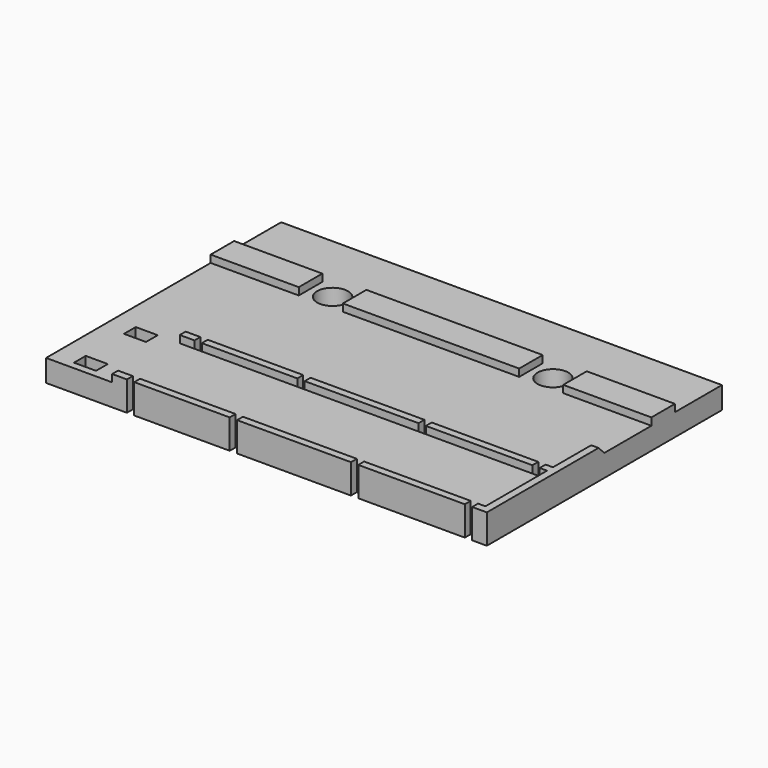
from build123d import *

# Parameters (mm, degrees)
BOX020_W          = 3
BOX020_H          = 2
BOX020_DEPTH      = 10
BOX014_W          = 1
BOX014_H          = 1
BOX014_DEPTH      = 8
BOX008_W          = 1
BOX008_H          = 1
BOX008_DEPTH      = 8
BOX009_W          = 1
BOX009_H          = 1
BOX009_DEPTH      = 8
BOX012_W          = 1
BOX012_H          = 1
BOX012_DEPTH      = 8
BOX013_W          = 1
BOX013_H          = 1
BOX013_DEPTH      = 8
BOX010_W          = 1
BOX010_H          = 1
BOX010_DEPTH      = 8
BOX011_W          = 1
BOX011_H          = 1
BOX011_DEPTH      = 8
BOX015_W          = 1
BOX015_H          = 1
BOX015_DEPTH      = 8
BOX019_W          = 3
BOX019_H          = 2
BOX019_DEPTH      = 10
BOX006_W          = 50
BOX006_H          = 1
BOX006_DEPTH      = 4
BOX005_W          = 50
BOX005_H          = 1
BOX005_DEPTH      = 4
BOX007_W          = 1
BOX007_H          = 20
BOX007_DEPTH      = 4
CHAMFER_SIZE      = 1
BOX001_W          = 60
BOX001_H          = 20
BOX001_DEPTH      = 3
CHAMFER001_SIZE   = 1
CYLINDER001_R     = 2.1
CYLINDER001_DEPTH = 10
CYLINDER_R        = 2.1
CYLINDER_DEPTH    = 10
BOX002_W          = 12
BOX002_H          = 4
BOX002_DEPTH      = 4
BOX004_W          = 24
BOX004_H          = 4
BOX004_DEPTH      = 4
BOX003_W          = 12
BOX003_H          = 4
BOX003_DEPTH      = 4
BOX_W             = 60
BOX_H             = 20
BOX_DEPTH         = 3


with BuildPart() as cube020:
    # Box020 → Box020 (new body)
    with BuildSketch(Plane(origin=(3, -10.5, 0), x_dir=(1, 0, 0), z_dir=(0, 0, 1))):
        with Locations((1.5, 1)):
            Rectangle(BOX020_W, BOX020_H)
    extrude(amount=BOX020_DEPTH)


with BuildPart() as cube014:
    # Box014 → Box014 (new body)
    with BuildSketch(Plane(origin=(11, -8.5, 0), x_dir=(1, 0, 0), z_dir=(0, 0, 1))):
        with Locations((0.5, 0.5)):
            Rectangle(BOX014_W, BOX014_H)
    extrude(amount=BOX014_DEPTH)


with BuildPart() as cube008:
    # Box008 → Box008 (new body)
    with BuildSketch(Plane(origin=(11, -20, 0), x_dir=(1, 0, 0), z_dir=(0, 0, 1))):
        with Locations((0.5, 0.5)):
            Rectangle(BOX008_W, BOX008_H)
    extrude(amount=BOX008_DEPTH)


with BuildPart() as cube009:
    # Box009 → Box009 (new body)
    with BuildSketch(Plane(origin=(25, -20, 0), x_dir=(1, 0, 0), z_dir=(0, 0, 1))):
        with Locations((0.5, 0.5)):
            Rectangle(BOX009_W, BOX009_H)
    extrude(amount=BOX009_DEPTH)


with BuildPart() as cube012:
    # Box012 → Box012 (new body)
    with BuildSketch(Plane(origin=(25, -8.5, 0), x_dir=(1, 0, 0), z_dir=(0, 0, 1))):
        with Locations((0.5, 0.5)):
            Rectangle(BOX012_W, BOX012_H)
    extrude(amount=BOX012_DEPTH)


with BuildPart() as cube013:
    # Box013 → Box013 (new body)
    with BuildSketch(Plane(origin=(41.5, -8.5, 0), x_dir=(1, 0, 0), z_dir=(0, 0, 1))):
        with Locations((0.5, 0.5)):
            Rectangle(BOX013_W, BOX013_H)
    extrude(amount=BOX013_DEPTH)


with BuildPart() as cube010:
    # Box010 → Box010 (new body)
    with BuildSketch(Plane(origin=(41.5, -20, 0), x_dir=(1, 0, 0), z_dir=(0, 0, 1))):
        with Locations((0.5, 0.5)):
            Rectangle(BOX010_W, BOX010_H)
    extrude(amount=BOX010_DEPTH)


with BuildPart() as cube011:
    # Box011 → Box011 (new body)
    with BuildSketch(Plane(origin=(57, -20, 0), x_dir=(1, 0, 0), z_dir=(0, 0, 1))):
        with Locations((0.5, 0.5)):
            Rectangle(BOX011_W, BOX011_H)
    extrude(amount=BOX011_DEPTH)


with BuildPart() as cube015:
    # Box015 → Box015 (new body)
    with BuildSketch(Plane(origin=(57, -8.5, 0), x_dir=(1, 0, 0), z_dir=(0, 0, 1))):
        with Locations((0.5, 0.5)):
            Rectangle(BOX015_W, BOX015_H)
    extrude(amount=BOX015_DEPTH)


with BuildPart() as fusion003:
    # Box019 → Box019 (new body)
    with BuildSketch(Plane(origin=(3, -19, 0), x_dir=(1, 0, 0), z_dir=(0, 0, 1))):
        with Locations((1.5, 1)):
            Rectangle(BOX019_W, BOX019_H)
    extrude(amount=BOX019_DEPTH)

    # Fusion003: union Cube020, Cube014, Cube008, Cube009, Cube012, Cube013, Cube010, Cube011, Cube015
    add(cube020.part)
    add(cube014.part)
    add(cube008.part)
    add(cube009.part)
    add(cube012.part)
    add(cube013.part)
    add(cube010.part)
    add(cube011.part)
    add(cube015.part)


with BuildPart() as cube006:
    # Box006 → Box006 (new body)
    with BuildSketch(Plane(origin=(9, -8.5, 0), x_dir=(1, 0, 0), z_dir=(0, 0, 1))):
        with Locations((25, 0.5)):
            Rectangle(BOX006_W, BOX006_H)
    extrude(amount=BOX006_DEPTH)


with BuildPart() as cube005:
    # Box005 → Box005 (new body)
    with BuildSketch(Plane(origin=(9, -20, 0), x_dir=(1, 0, 0), z_dir=(0, 0, 1))):
        with Locations((25, 0.5)):
            Rectangle(BOX005_W, BOX005_H)
    extrude(amount=BOX005_DEPTH)


with BuildPart() as chamfer_body:
    # Box007 → Box007 (new body)
    with BuildSketch(Plane(origin=(59, -20, 0), x_dir=(1, 0, 0), z_dir=(0, 0, 1))):
        with Locations((0.5, 10)):
            Rectangle(BOX007_W, BOX007_H)
    extrude(amount=BOX007_DEPTH)

    # Chamfer
    chamfer_edges = [chamfer_body.edges().sort_by_distance(p)[0] for p in [
        (59.5, 0, 4),
    ]]
    chamfer(chamfer_edges, length=CHAMFER_SIZE)


with BuildPart() as chamfer001:
    # Box001 → Box001 (new body)
    with BuildSketch(Plane(origin=(0, -20, 0), x_dir=(1, 0, 0), z_dir=(0, 0, 1))):
        with Locations((30, 10)):
            Rectangle(BOX001_W, BOX001_H)
    extrude(amount=BOX001_DEPTH)

    # Fusion002: union Cube006, Cube005, Chamfer body
    add(cube006.part)
    add(cube005.part)
    add(chamfer_body.part)

    # Cut001: cut Fusion003
    add(fusion003.part, mode=Mode.SUBTRACT)

    # Chamfer001
    chamfer001_edges = [chamfer001.edges().sort_by_distance(p)[0] for p in [
        (4.5, -17, 0),
        (4.5, -10.5, 0),
    ]]
    chamfer(chamfer001_edges, length=CHAMFER001_SIZE)


with BuildPart() as cylinder001:
    # Cylinder001 → Cylinder001 (new body)
    with BuildSketch(Plane(origin=(45, 10, 0), x_dir=(1, 0, 0), z_dir=(0, 0, 1))):
        Circle(CYLINDER001_R)
    extrude(amount=CYLINDER001_DEPTH)


with BuildPart() as fusion001:
    # Cylinder → Cylinder (new body)
    with BuildSketch(Plane(origin=(15, 10, 0), x_dir=(1, 0, 0), z_dir=(0, 0, 1))):
        Circle(CYLINDER_R)
    extrude(amount=CYLINDER_DEPTH)

    # Fusion001: union Cylinder001
    add(cylinder001.part)


with BuildPart() as cube002:
    # Box002 → Box002 (new body)
    with BuildSketch(Plane(origin=(0, 8, 0), x_dir=(1, 0, 0), z_dir=(0, 0, 1))):
        with Locations((6, 2)):
            Rectangle(BOX002_W, BOX002_H)
    extrude(amount=BOX002_DEPTH)


with BuildPart() as cube004:
    # Box004 → Box004 (new body)
    with BuildSketch(Plane(origin=(18, 8, 0), x_dir=(1, 0, 0), z_dir=(0, 0, 1))):
        with Locations((12, 2)):
            Rectangle(BOX004_W, BOX004_H)
    extrude(amount=BOX004_DEPTH)


with BuildPart() as cube003:
    # Box003 → Box003 (new body)
    with BuildSketch(Plane(origin=(48, 8, 0), x_dir=(1, 0, 0), z_dir=(0, 0, 1))):
        with Locations((6, 2)):
            Rectangle(BOX003_W, BOX003_H)
    extrude(amount=BOX003_DEPTH)


with BuildPart() as fusion004:
    # Box → Box (new body)
    with BuildSketch(Plane.XY):
        with Locations((30, 10)):
            Rectangle(BOX_W, BOX_H)
    extrude(amount=BOX_DEPTH)

    # Fusion: union Cube002, Cube004, Cube003
    add(cube002.part)
    add(cube004.part)
    add(cube003.part)

    # Cut: cut Fusion001
    add(fusion001.part, mode=Mode.SUBTRACT)

    # Fusion004: union Chamfer001
    add(chamfer001.part)


solid = fusion004.part
